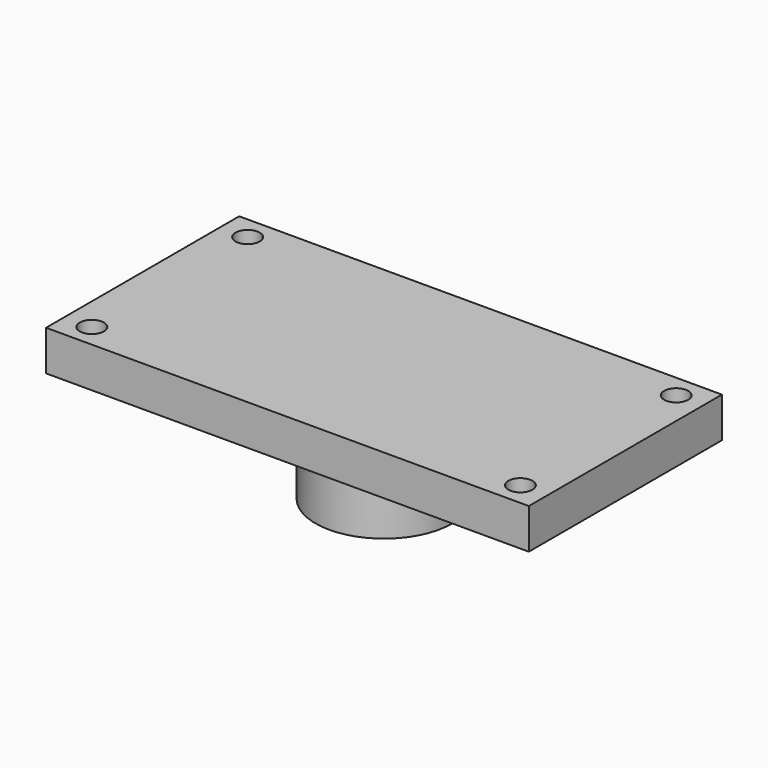
from build123d import *

# Parameters (mm, degrees)
F2_W     = 60
F2_H     = 30
F2_R     = 1.5
F3_DEPTH = 5
F1_R     = 8.5
F1_R_2   = 4
F4_DEPTH = 15


with BuildPart() as f3:
    # F2 (on face) → F3 (new body)
    with BuildSketch(Plane.XY):
        Rectangle(F2_W, F2_H)
        with Locations((-26.629558, -12.103098)):
            Circle(F2_R, mode=Mode.SUBTRACT)
        with Locations((26.629558, -12.103098)):
            Circle(F2_R, mode=Mode.SUBTRACT)
        with Locations((-26.629558, 12.103098)):
            Circle(F2_R, mode=Mode.SUBTRACT)
        with Locations((26.629558, 12.103098)):
            Circle(F2_R, mode=Mode.SUBTRACT)
    extrude(amount=-F3_DEPTH)

    # F1 (on face) → F4 (join)
    with BuildSketch(Plane.XY):
        Circle(F1_R)
        Circle(F1_R_2, mode=Mode.SUBTRACT)
    extrude(amount=-F4_DEPTH)


solid = f3.part
